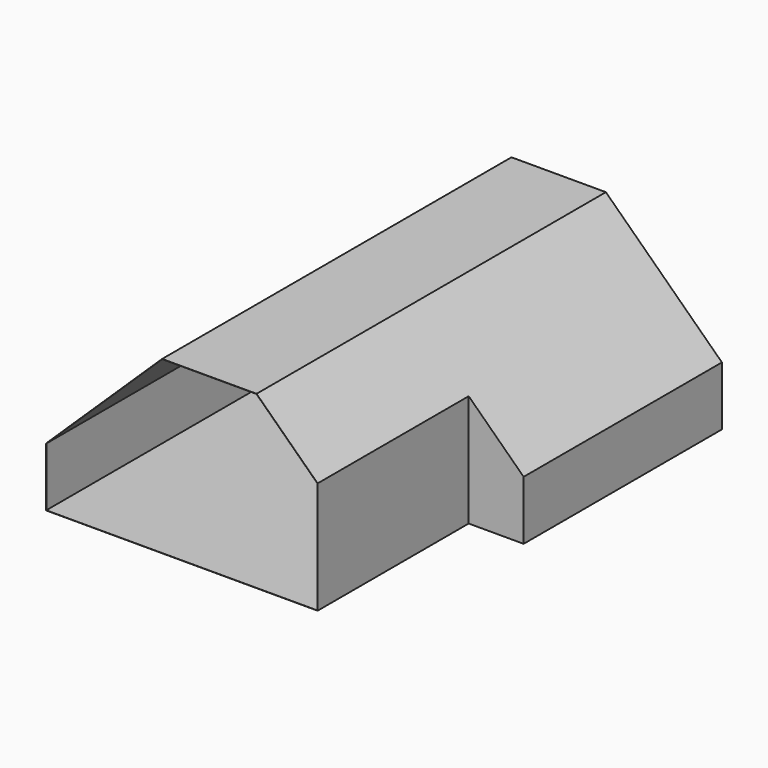
from build123d import *

# Parameters (mm, degrees)
F1_DEPTH = 3200.4
F3_DEPTH = 2438.4
F4_T     = -2.54


with BuildPart() as f1:
    # F0 (on Front) → F1 (new body)
    with BuildSketch(Plane.XZ):
        Polygon((0, 762), (0, 0), (4216.4, 0), (4216.4, 762), (2717.8, 2209.8), (1498.6, 2209.8), align=None)
    extrude(amount=F1_DEPTH)

    # F2 (on face) → F3 (join)
    with BuildSketch(Plane.XZ.offset(3200.4)):
        Polygon((0, 762), (0, 0), (3506.5368421053, 0), (3506.5368421053, 1447.8), (2717.8, 2209.8), (1498.6, 2209.8), align=None)
    extrude(amount=F3_DEPTH)

    # F4
    f4_openings = [f1.faces().sort_by_distance(p)[0] for p in [
        (2108.2, 0, 916.002545),
        (1896.624586, -5638.8, 958.626516),
    ]]
    offset(amount=F4_T, openings=f4_openings, kind=Kind.INTERSECTION)


solid = f1.part
